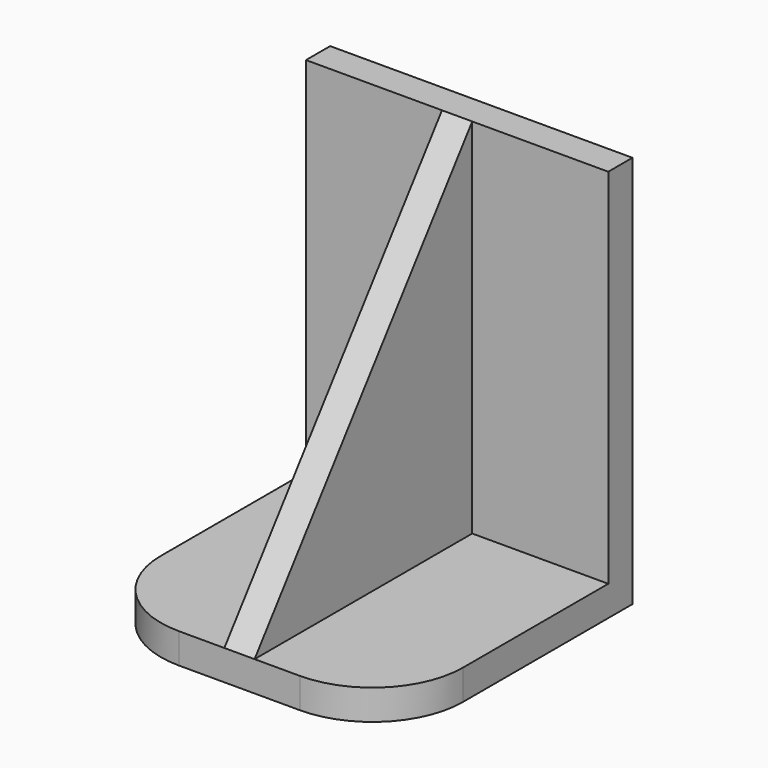
from build123d import *

# Parameters (mm, degrees)
F1_W     = 10
F1_H     = 10
F2_DEPTH = 1
F3_W     = 10
F3_H     = 1
F4_DEPTH = 12
F8_W     = 1
F8_H     = 15
F10_R    = 3


with BuildPart() as f2:
    # F1 (on Top) → F2 (new body)
    with BuildSketch(Plane.XY):
        with Locations((-1.3497796124, 5)):
            Rectangle(F1_W, F1_H)
    extrude(amount=F2_DEPTH)

    # F3 (on face) → F4 (join)
    with BuildSketch(Plane.XY.offset(1)):
        with Locations((-1.3497796124, 9.5)):
            Rectangle(F3_W, F3_H)
    extrude(amount=F4_DEPTH)

    # F8 (on 3pt) → F9 (join, up to the next surface of F2)
    with BuildSketch(Plane(origin=(0, -0.48, 0.36), x_dir=(-1, 0, 0), z_dir=(0, 0.8, -0.6))):
        with Locations((1.3497796124, 8.3)):
            Rectangle(F8_W, F8_H)
    extrude(until=Until.NEXT)

    # F10
    f10_edges = [f2.edges().sort_by_distance(p)[0] for p in [
        (3.65022, 0, 0.5),
        (-6.34978, 0, 0.5),
    ]]
    fillet(f10_edges, radius=F10_R)


solid = f2.part
